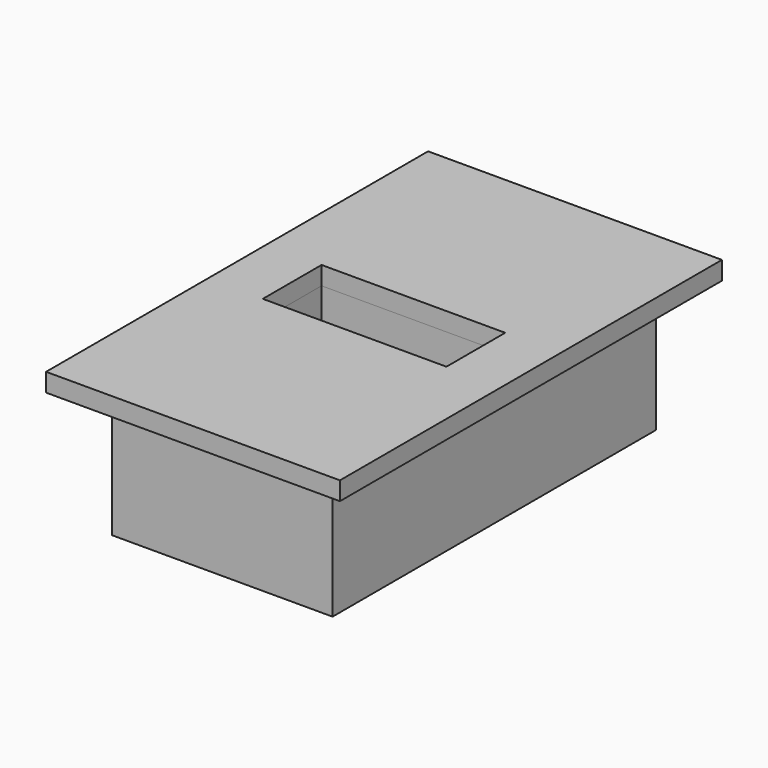
from build123d import *

# Parameters (mm, degrees)
F0_W     = 406.4
F0_H     = 660.4
F0_W_2   = 304.8
F0_H_2   = 558.8
F0_W_3   = 254
F0_H_3   = 101.6
F2_DEPTH = 25.4
F3_DEPTH = 177.8
F4_T     = -6.35


with BuildPart() as f2:
    # F0 (on Top) → F2 (new body)
    with BuildSketch(Plane.XY):
        with Locations((-50.8, 50.8)):
            Rectangle(F0_W, F0_H)
        with Locations((-50.8, 50.8)):
            Rectangle(F0_W_2, F0_H_2, mode=Mode.SUBTRACT)
        with Locations((-50.8, 50.8)):
            Rectangle(F0_W_2, F0_H_2)
        with Locations((-50.8, 50.8)):
            Rectangle(F0_W_3, F0_H_3, mode=Mode.SUBTRACT)
    extrude(amount=F2_DEPTH)


with BuildPart() as f3:
    # F0 (on Top) → F3 (new body)
    with BuildSketch(Plane.XY):
        with Locations((-50.8, 50.8)):
            Rectangle(F0_W_2, F0_H_2)
        with Locations((-50.8, 50.8)):
            Rectangle(F0_W_3, F0_H_3, mode=Mode.SUBTRACT)
    extrude(amount=-F3_DEPTH)

    # F4
    f4_openings = [f3.faces().sort_by_distance(p)[0] for p in [
        (95.234778, 50.8, -177.8),
    ]]
    offset(amount=F4_T, openings=f4_openings, kind=Kind.INTERSECTION)


solid = Compound([f2.part, f3.part])
